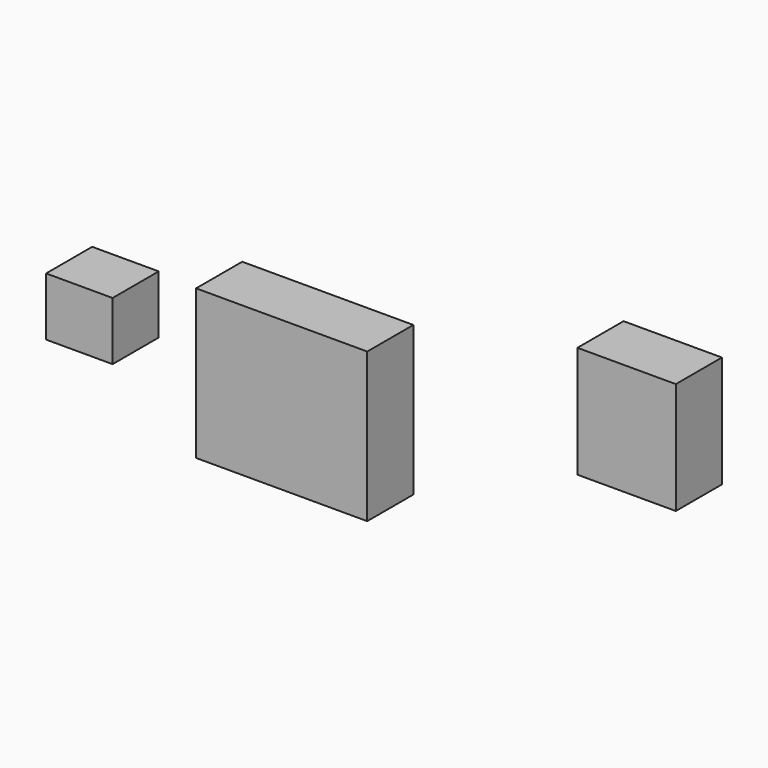
from build123d import *

# Parameters (mm, degrees)
F0_W     = 28.851297
F0_H     = 25.279229
F1_DEPTH = 25
F2_W     = 74.228167
F2_H     = 64.782059
F2_W_2   = 42.666584
F2_H_2   = 48.468478
F3_DEPTH = 25


with BuildPart() as f1:
    # F0 (on Front) → F1 (new body)
    with BuildSketch(Plane.XZ):
        with Locations((-35.01488, 39.383244)):
            Rectangle(F0_W, F0_H)
    extrude(amount=F1_DEPTH)


with BuildPart() as f3:
    # F2 (on Front) → F3 (new body)
    with BuildSketch(Plane.XZ):
        with Locations((52.748754, 35.099362)):
            Rectangle(F2_W, F2_H)
        with Locations((202.374041, 74.347261)):
            Rectangle(F2_W_2, F2_H_2)
    extrude(amount=F3_DEPTH)


solid = Compound([f1.part, f3.part])
